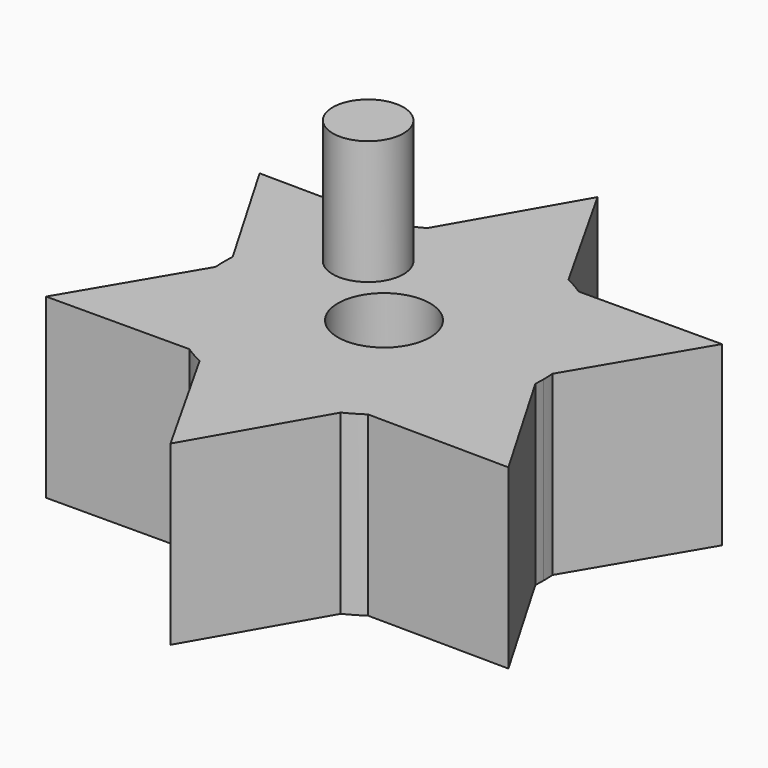
from build123d import *

# Parameters (mm, degrees)
F0_R     = 3.306105
F1_DEPTH = 12.7
F2_R     = 2.534693
F3_DEPTH = 8.89


with BuildPart() as f1:
    # F0 (on Top) → F1 (new body)
    with BuildSketch(Plane.XY):
        with BuildLine():
            ThreePointArc((11.417595, -0.712938), (11.434271, -0.356642), (11.439832, 0))
            ThreePointArc((11.439832, 0), (11.432214, 0.417404), (11.409372, 0.834252))
            ThreePointArc((11.409372, 0.834252), (9.876647, 5.772486), (6.32622, 9.531458))
            ThreePointArc((6.32622, 9.531458), (5.667184, 9.937443), (4.982202, 10.297932))
            ThreePointArc((4.982202, 10.297932), (2.555693, 11.150703), (0, 11.439832))
            ThreePointArc((0, 11.439832), (-2.614917, 11.136963), (-5.091375, 10.244396))
            ThreePointArc((-5.091375, 10.244396), (-5.772486, 9.876647), (-6.42717, 9.46368))
            ThreePointArc((-6.42717, 9.46368), (-9.937443, 5.667184), (-11.417595, 0.712938))
            ThreePointArc((-11.417595, 0.712938), (-11.43967, -0.060796), (-11.409372, -0.834252))
            ThreePointArc((-11.409372, -0.834252), (-9.876647, -5.772486), (-6.32622, -9.531458))
            ThreePointArc((-6.32622, -9.531458), (-5.667184, -9.937443), (-4.982202, -10.297932))
            ThreePointArc((-4.982202, -10.297932), (0.060796, -11.43967), (5.091375, -10.244396))
            ThreePointArc((5.091375, -10.244396), (5.772486, -9.876647), (6.42717, -9.46368))
            ThreePointArc((6.42717, -9.46368), (9.937443, -5.667184), (11.417595, -0.712938))
        make_face()
        Circle(F0_R, mode=Mode.SUBTRACT)
        with BuildLine():
            ThreePointArc((6.32622, 9.531458), (9.876647, 5.772486), (11.409372, 0.834252))
            Line((11.409372, 0.834252), (16.56909, 9.566168))
            Line((16.56909, 9.566168), (6.32622, 9.531458))
        make_face()
        with BuildLine():
            Line((16.56909, -9.566168), (11.417595, -0.712938))
            ThreePointArc((11.417595, -0.712938), (9.937443, -5.667184), (6.42717, -9.46368))
            Line((6.42717, -9.46368), (16.56909, -9.566168))
        make_face()
        with BuildLine():
            ThreePointArc((0, 11.439832), (2.555693, 11.150703), (4.982202, 10.297932))
            Line((4.982202, 10.297932), (0, 19.132337))
            Line((0, 19.132337), (0, 11.439832))
        make_face()
        with BuildLine():
            Line((0, -19.132337), (5.091375, -10.244396))
            ThreePointArc((5.091375, -10.244396), (0.060796, -11.43967), (-4.982202, -10.297932))
            Line((-4.982202, -10.297932), (0, -19.132337))
        make_face()
        with BuildLine():
            ThreePointArc((-5.091375, 10.244396), (-2.614917, 11.136963), (0, 11.439832))
            Line((0, 11.439832), (0, 19.132337))
            Line((0, 19.132337), (-5.091375, 10.244396))
        make_face()
        with BuildLine():
            Line((-16.56909, -9.566168), (-6.32622, -9.531458))
            ThreePointArc((-6.32622, -9.531458), (-9.876647, -5.772486), (-11.409372, -0.834252))
            Line((-11.409372, -0.834252), (-16.56909, -9.566168))
        make_face()
        with BuildLine():
            ThreePointArc((-11.417595, 0.712938), (-9.937443, 5.667184), (-6.42717, 9.46368))
            Line((-6.42717, 9.46368), (-16.56909, 9.566168))
            Line((-16.56909, 9.566168), (-11.417595, 0.712938))
        make_face()
    extrude(amount=F1_DEPTH)

    # F2 (on face) → F3 (join)
    with BuildSketch(Plane.XY.offset(12.7)):
        with Locations((-5.170809, 5.042512)):
            Circle(F2_R)
    extrude(amount=F3_DEPTH)


solid = f1.part
